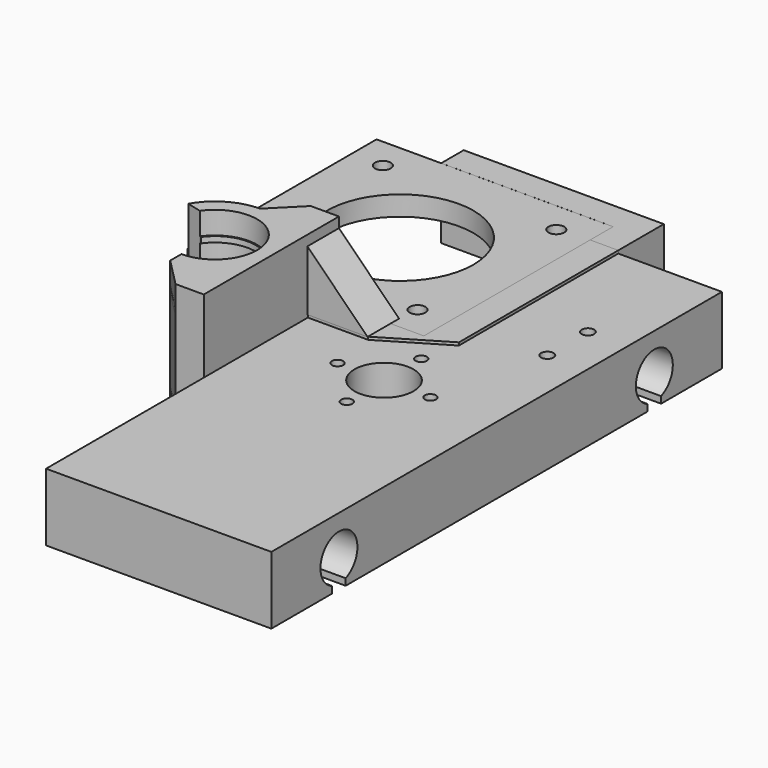
from build123d import *

# Parameters (mm, degrees)
SKETCH018_W     = 42
SKETCH018_H     = 42
SKETCH018_R     = 13
SKETCH018_R_2   = 1.4
PAD018_DEPTH    = 3.5
PAD020_DEPTH    = 0.5
POCKET003_DEPTH = 30
PAD022_DEPTH    = 12.5
PAD026_DEPTH    = 7
SKETCH019_W     = 42
SKETCH019_H     = 42
PAD019_DEPTH    = 12
SKETCH_R        = 5.25
PAD_DEPTH       = 12
POCKET_DEPTH    = 25
SKETCH005_R     = 1
POCKET001_DEPTH = 12
SKETCH014_R     = 1.1
POCKET002_DEPTH = 12
PAD016_DEPTH    = 1
PAD017_DEPTH    = 1
PAD015_DEPTH    = 25


with BuildPart() as pad018:
    # Sketch018 → Pad018 (new body)
    with BuildSketch(Plane(origin=(14.7, 64.62, 9), x_dir=(1, 0, 0), z_dir=(0, 0, 1))):
        with Locations((-9.096434, -30.528784)):
            Rectangle(SKETCH018_W, SKETCH018_H)
        with Locations((-9.096434, -30.528784)):
            Circle(SKETCH018_R, mode=Mode.SUBTRACT)
        with Locations((6.303566, -15.128784)):
            Circle(SKETCH018_R_2, mode=Mode.SUBTRACT)
        with Locations((6.303566, -45.928784)):
            Circle(SKETCH018_R_2, mode=Mode.SUBTRACT)
        with Locations((-24.496434, -15.128784)):
            Circle(SKETCH018_R_2, mode=Mode.SUBTRACT)
        with Locations((-24.496434, -45.928784)):
            Circle(SKETCH018_R_2, mode=Mode.SUBTRACT)
    extrude(amount=PAD018_DEPTH)


with BuildPart() as pocket003:
    # Sketch020 → Pad020 (new body)
    with BuildSketch(Plane.XY.offset(12)):
        Polygon((26.6, 13.1), (10, 13.1), (10, 8.1), (31.6, 8.1), (31.6, 50), (26.6, 50), align=None)
    extrude(amount=PAD020_DEPTH)

    # Sketch021 → Pocket003 (cut)
    with BuildSketch(Plane.XY.offset(12.5)):
        Polygon((20.278515, 7.845065), (31.887259, 14.79844), (31.887259, 7.845065), align=None)
    extrude(amount=-POCKET003_DEPTH, mode=Mode.SUBTRACT)


with BuildPart() as pad022:
    # Sketch024 → Pad022 (new body)
    with BuildSketch(Plane.XY):
        Polygon((26.6, 50), (31.6, 50), (31.6, 60.1), (-3.925276, 60.1), (-3.925276, 55.1), (26.6, 55.1), align=None)
    extrude(amount=PAD022_DEPTH)


with BuildPart() as pad026:
    # Sketch028 → Pad026 (new body)
    with BuildSketch(Plane(origin=(0, 8, -14), x_dir=(1, 0, 0), z_dir=(0, -1, 0))):
        Polygon((10, 37.176065), (10, 26.5), (20.676065, 26.5), align=None)
    extrude(amount=-PAD026_DEPTH)


with BuildPart() as cut001:
    # Sketch019 → Pad019 (new body)
    with BuildSketch(Plane.XY):
        with Locations((5.587691, 34.090154)):
            Rectangle(SKETCH019_W, SKETCH019_H)
    extrude(amount=PAD019_DEPTH)


with BuildPart() as pocket002:
    # Sketch → Pad (new body)
    with BuildSketch(Plane.XY):
        Polygon((50, -50), (50, 50), (10, 50), (10, 20), (10, -13.385166), (10, -50), align=None)
        with Locations((30, 0)):
            Circle(SKETCH_R, mode=Mode.SUBTRACT)
    extrude(amount=PAD_DEPTH)

    # Sketch001 → Pocket (cut)
    with BuildSketch(Plane.YZ.offset(50)):
        with BuildLine():
            Line((-33.511602, 1.179703), (-33.511602, 0))
            Line((-33.511602, 0), (-36.511602, 0))
            Line((-36.511602, 0), (-36.511602, 1.188825))
            ThreePointArc((-33.511602, 1.179703), (-34.987533, 9.099981), (-36.511602, 1.188825))
        make_face()
        with BuildLine():
            Line((36.5, 1.184243), (36.5, 0))
            Line((36.5, 0), (33.5, 0))
            Line((33.5, 0), (33.5, 1.184243))
            ThreePointArc((36.5, 1.184243), (35, 9.1), (33.5, 1.184243))
        make_face()
    extrude(amount=-POCKET_DEPTH, mode=Mode.SUBTRACT)

    # Sketch005 → Pocket001 (cut)
    with BuildSketch(Plane.XY.offset(12)):
        with Locations((29.99715, 8.25)):
            Circle(SKETCH005_R)
        with Locations((21.74715, 0)):
            Circle(SKETCH005_R)
        with Locations((38.24715, 0)):
            Circle(SKETCH005_R)
        with Locations((29.99715, -8.25)):
            Circle(SKETCH005_R)
    extrude(amount=-POCKET001_DEPTH, mode=Mode.SUBTRACT)

    # Sketch014 → Pocket002 (cut)
    with BuildSketch(Plane.XY.offset(12)):
        with Locations((43, 29.001852)):
            Circle(SKETCH014_R)
        with Locations((43, 20.001852)):
            Circle(SKETCH014_R)
    extrude(amount=-POCKET002_DEPTH, mode=Mode.SUBTRACT)


with BuildPart() as pad016:
    # Sketch016 → Pad016 (new body)
    with BuildSketch(Plane.XY.offset(32)):
        with BuildLine():
            Line((-5.8767, 4.245809), (-8.700179, 4.930201))
            ThreePointArc((0, 10), (-5.034779, 8.640081), (-8.700179, 4.930201))
            Line((0, 10), (4.98503, 15))
            Line((10, 15), (4.98503, 15))
            Line((10, -15), (10, 15))
            Line((4.98503, -15), (10, -15))
            Line((0, -10), (4.98503, -15))
            Line((0, -7.25), (0, -10))
            ThreePointArc((0, -7.25), (6.455409, 3.300029), (-5.8767, 4.245809))
        make_face()
    extrude(amount=PAD016_DEPTH)


with BuildPart() as pad017:
    # Sketch017 → Pad017 (new body)
    with BuildSketch(Plane.XY.offset(48)):
        with BuildLine():
            Line((-5.8767, 4.245809), (-8.700179, 4.930201))
            ThreePointArc((0, 10), (-5.034779, 8.640081), (-8.700179, 4.930201))
            Line((0, 10), (4.98503, 15))
            Line((10, 15), (4.98503, 15))
            Line((10, -15), (10, 15))
            Line((4.98503, -15), (10, -15))
            Line((0, -10), (4.98503, -15))
            Line((0, -7.25), (0, -10))
            ThreePointArc((0, -7.25), (6.455409, 3.300029), (-5.8767, 4.245809))
        make_face()
    extrude(amount=PAD017_DEPTH)


with BuildPart() as cut:
    # Sketch015 → Pad015 (new body)
    with BuildSketch(Plane.XY.offset(28)):
        with BuildLine():
            Line((-6.124049, 4.274369), (-8.700179, 4.930201))
            ThreePointArc((0, 10), (-5.034779, 8.640081), (-8.700179, 4.930201))
            Line((0, 10), (4.98503, 15))
            Line((10, 15), (4.98503, 15))
            Line((10, -15), (10, 15))
            Line((4.98503, -15), (10, -15))
            Line((0, -9.952784), (4.98503, -15))
            Line((0, -7.468213), (0, -9.952784))
            ThreePointArc((0, -7.468213), (6.621786, 3.453426), (-6.124049, 4.274369))
        make_face()
    extrude(amount=PAD015_DEPTH)

    # Fusion: union Pad016, Pad017
    add(pad016.part)
    add(pad017.part)


with BuildPart() as cut_1:
    # Fusion placement: moved
    add(cut.part.moved(Location((0, 0, -28))))

    # Fusion001: union Pocket002
    add(pocket002.part)

    # Cut: cut Cut001
    add(cut001.part, mode=Mode.SUBTRACT)


solid = Compound([pad018.part, pocket003.part, pad022.part, pad026.part, cut_1.part])
